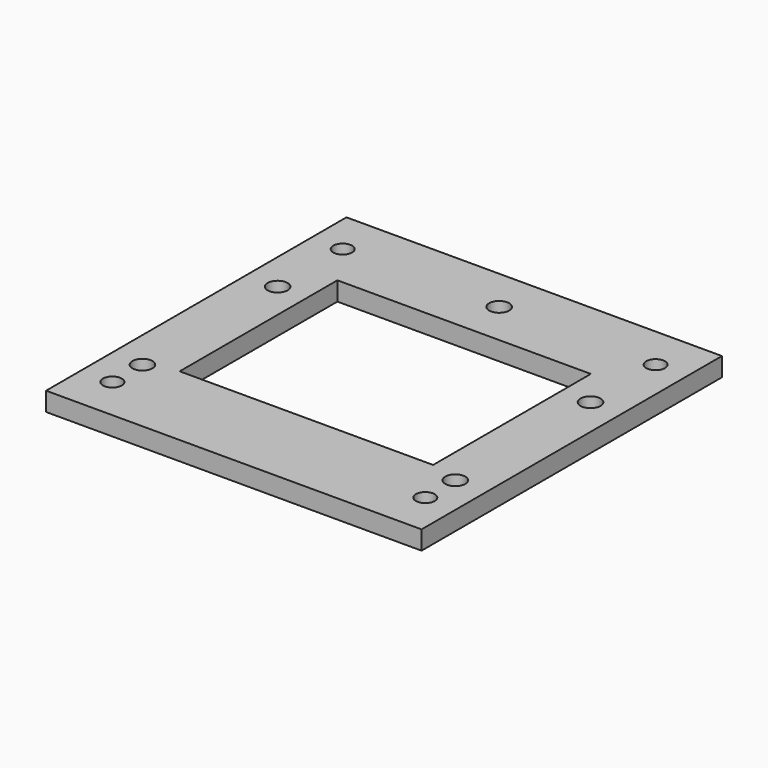
from build123d import *

# Parameters (mm, degrees)
F0_W     = 60
F0_H     = 60
F0_W_2   = 40.5
F0_H_2   = 31
F1_DEPTH = 3
F2_R     = 1.5
F3_DEPTH = 3.001
F4_W     = 40.5
F4_H     = 3
F5_DEPTH = 0.5
F6_R     = 1.6
F7_DEPTH = 3.001


with BuildPart() as f1:
    # F0 (on Top) → F1 (new body)
    with BuildSketch(Plane.XY):
        Rectangle(F0_W, F0_H)
        Rectangle(F0_W_2, F0_H_2, mode=Mode.SUBTRACT)
    extrude(amount=F1_DEPTH)

    # F2 (on face) → F3 (cut, through all)
    with BuildSketch(Plane.XY.offset(3)):
        with Locations((-25, -23)):
            Circle(F2_R)
        with Locations((-25, 23)):
            Circle(F2_R)
        with Locations((25, 23)):
            Circle(F2_R)
        with Locations((25, -23)):
            Circle(F2_R)
    extrude(amount=-F3_DEPTH, mode=Mode.SUBTRACT)

    # F4 (on face) → F5 (cut)
    with BuildSketch(Plane.XZ.offset(-15.5)):
        with Locations((0, 1.5)):
            Rectangle(F4_W, F4_H)
    extrude(amount=-F5_DEPTH, mode=Mode.SUBTRACT)

    # F6 (on face) → F7 (cut, through all)
    with BuildSketch(Plane.XY.offset(3)):
        with Locations((-25, 10)):
            Circle(F6_R)
        with Locations((-25, -17)):
            Circle(F6_R)
        with Locations((25, 10)):
            Circle(F6_R)
        with Locations((25, -17)):
            Circle(F6_R)
        with Locations((0, 23)):
            Circle(F6_R)
    extrude(amount=-F7_DEPTH, mode=Mode.SUBTRACT)


solid = f1.part
